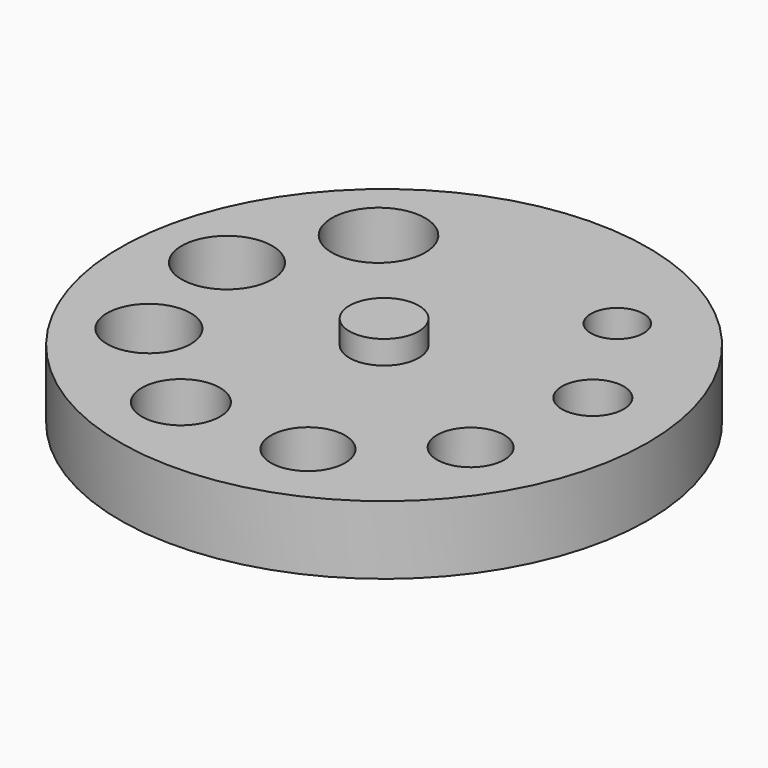
from build123d import *

# Parameters (mm, degrees)
F0_R     = 6.375
F1_DEPTH = 21
F0_R_2   = 65
F0_R_3   = 12.5
F0_R_4   = 13.2
F0_R_5   = 12
F0_R_6   = 11.1
F0_R_7   = 14.1
F0_R_8   = 14.45
F0_R_9   = 10.4
F0_R_10  = 9.25
F2_DEPTH = 15
F3_T     = 2.5


with BuildPart() as f1:
    # F0 (on Top) → F1 (new body)
    with BuildSketch(Plane.XY):
        Circle(F0_R)
    extrude(amount=F1_DEPTH)

    # F0 (on Top) → F2 (join)
    with BuildSketch(Plane.XY):
        Circle(F0_R_2)
        with Locations((-16.245956808, -44.6353994873)):
            Circle(F0_R_3, mode=Mode.SUBTRACT)
        with Locations((-41.1362066798, -23.75)):
            Circle(F0_R_4, mode=Mode.SUBTRACT)
        with Locations((16.245956808, -44.6353994873)):
            Circle(F0_R_5, mode=Mode.SUBTRACT)
        with Locations((41.1362066798, -23.75)):
            Circle(F0_R_6, mode=Mode.SUBTRACT)
        with Locations((-46.7783682681, 8.2482884392)):
            Circle(F0_R_7, mode=Mode.SUBTRACT)
        with Locations((-30.5324114601, 36.3871110482)):
            Circle(F0_R_8, mode=Mode.SUBTRACT)
        Circle(F0_R, mode=Mode.SUBTRACT)
        with Locations((46.7783682681, 8.2482884392)):
            Circle(F0_R_9, mode=Mode.SUBTRACT)
        with Locations((30.5324114601, 36.3871110482)):
            Circle(F0_R_10, mode=Mode.SUBTRACT)
    extrude(amount=F2_DEPTH)

    # F3
    f3_openings = [f1.faces().sort_by_distance(p)[0] for p in [
        (3.404358, 2.387056, 0),
    ]]
    offset(amount=F3_T, openings=f3_openings, kind=Kind.INTERSECTION)


solid = f1.part
